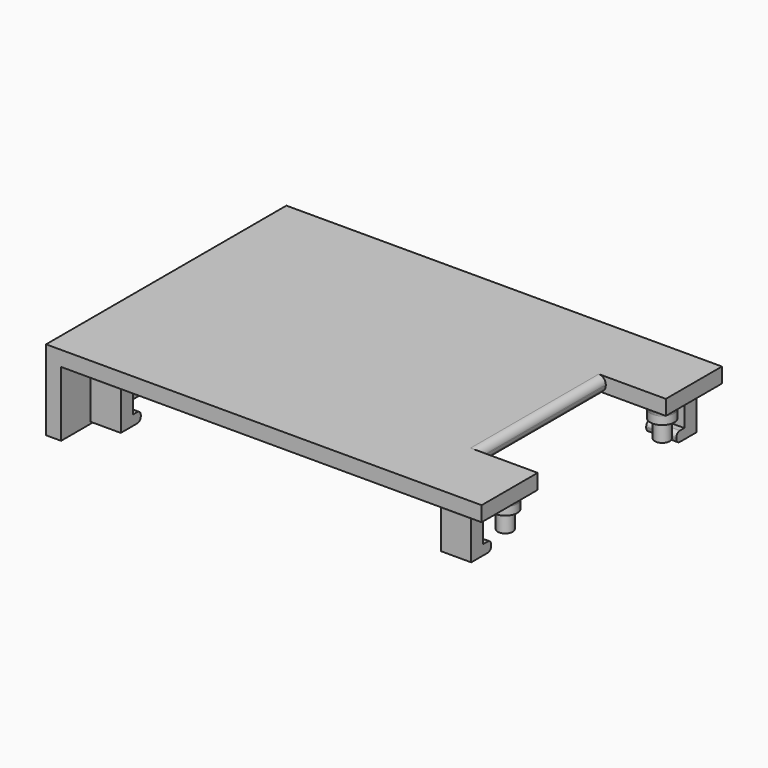
from build123d import *

# Parameters (mm, degrees)
PAD009_DEPTH            = 1.5
SKETCH020_R             = 1.2
SKETCH020_W             = 3
SKETCH020_H             = 1.5
PAD010_DEPTH            = 1.5
SKETCH018_R             = 0.75
SKETCH018_W             = 3
SKETCH018_H             = 1.5
PAD011_DEPTH            = 1.8
SKETCH022_W             = 3
SKETCH022_H             = 1.5
PAD013_DEPTH            = 0.2
SKETCH021_W             = 3
SKETCH021_H             = 2.5
PAD012_DEPTH            = 1
FILLET003_R             = 0.45
SKETCH024_W             = 1.5
SKETCH024_H             = 30
PAD014_DEPTH            = 8
SKETCH023_W             = 13
SKETCH023_H             = 2.5
POCKET005_DEPTH         = 5
FILLET005_R             = 0.7
FILLET006_R             = 0.7
FILLET010_R             = 0.7
BODY003_PLACEMENT_ANGLE = 180


with BuildPart() as part:
    # Sketch019 → Pad009 (new body)
    with BuildSketch(Plane.XY):
        Polygon((-21.2, 15), (20.8, 15), (20.8, 8), (14.8, 8), (14.8, -8), (20.8, -8), (20.8, -15), (-21.2, -15), align=None)
    extrude(amount=PAD009_DEPTH)

    # Sketch020 → Pad010 (join)
    with BuildSketch(Plane.XY.offset(1.5)):
        with Locations((-19, 9.8)):
            Circle(SKETCH020_R)
        with Locations((-19, -9.8)):
            Circle(SKETCH020_R)
        with Locations((19, -9.8)):
            Circle(SKETCH020_R)
        with Locations((19, 9.8)):
            Circle(SKETCH020_R)
        with Locations((-17.5, 13.3)):
            Rectangle(SKETCH020_W, SKETCH020_H)
        with Locations((17.5, 13.3)):
            Rectangle(SKETCH020_W, SKETCH020_H)
        with Locations((17.5, -13.3)):
            Rectangle(SKETCH020_W, SKETCH020_H)
        with Locations((-17.5, -13.3)):
            Rectangle(SKETCH020_W, SKETCH020_H)
    extrude(amount=PAD010_DEPTH)

    # Sketch018 → Pad011 (join)
    with BuildSketch(Plane.XY.offset(3)):
        with Locations((-19, 9.8)):
            Circle(SKETCH018_R)
        with Locations((19, 9.8)):
            Circle(SKETCH018_R)
        with Locations((19, -9.8)):
            Circle(SKETCH018_R)
        with Locations((-19, -9.8)):
            Circle(SKETCH018_R)
        with Locations((-17.5, 13.3)):
            Rectangle(SKETCH018_W, SKETCH018_H)
        with Locations((17.5, 13.3)):
            Rectangle(SKETCH018_W, SKETCH018_H)
        with Locations((17.5, -13.3)):
            Rectangle(SKETCH018_W, SKETCH018_H)
        with Locations((-17.5, -13.3)):
            Rectangle(SKETCH018_W, SKETCH018_H)
    extrude(amount=PAD011_DEPTH)

    # Sketch022 → Pad013 (join)
    with BuildSketch(Plane.XY.offset(4.8)):
        with Locations((-17.5, 13.3)):
            Rectangle(SKETCH022_W, SKETCH022_H)
        with Locations((17.5, 13.3)):
            Rectangle(SKETCH022_W, SKETCH022_H)
        with Locations((17.5, -13.3)):
            Rectangle(SKETCH022_W, SKETCH022_H)
        with Locations((-17.5, -13.3)):
            Rectangle(SKETCH022_W, SKETCH022_H)
    extrude(amount=PAD013_DEPTH)

    # Sketch021 → Pad012 (join)
    with BuildSketch(Plane.XY.offset(5)):
        with Locations((-17.5, 12.8)):
            Rectangle(SKETCH021_W, SKETCH021_H)
        with Locations((17.5, 12.8)):
            Rectangle(SKETCH021_W, SKETCH021_H)
        with Locations((17.5, -12.8)):
            Rectangle(SKETCH021_W, SKETCH021_H)
        with Locations((-17.5, -12.8)):
            Rectangle(SKETCH021_W, SKETCH021_H)
    extrude(amount=PAD012_DEPTH)

    # Fillet003
    fillet003_edges = [part.edges().sort_by_distance(p)[0] for p in [
        (-17.5, 11.55, 6),
        (-17.5, 11.55, 5),
        (17.5, 11.55, 6),
        (17.5, 11.55, 5),
        (17.5, -11.55, 5),
        (17.5, -11.55, 6),
        (-17.5, -11.55, 5),
        (-17.5, -11.55, 6),
    ]]
    fillet(fillet003_edges, radius=FILLET003_R)

    # Sketch024 → Pad014 (join)
    with BuildSketch(Plane.XY):
        with Locations((-21.95, 0)):
            Rectangle(SKETCH024_W, SKETCH024_H)
    extrude(amount=PAD014_DEPTH)

    # Sketch023 → Pocket005 (cut)
    with BuildSketch(Plane.YZ.offset(-21)):
        with Locations((1, 5.75)):
            Rectangle(SKETCH023_W, SKETCH023_H)
    extrude(amount=-POCKET005_DEPTH, mode=Mode.SUBTRACT)

    # Fillet005
    fillet005_edges = [part.edges().sort_by_distance(p)[0] for p in [
        (-17.5, -14.05, 1.5),
        (-16, -13.3, 1.5),
        (-17.5, -12.55, 1.5),
        (-20.2, -9.8, 1.5),
        (-19, -13.3, 1.5),
        (-20.2, 9.8, 1.5),
        (-16, 13.3, 1.5),
        (-19, 13.3, 1.5),
        (-17.5, 14.05, 1.5),
        (-17.5, 12.55, 1.5),
        (17.8, -9.8, 1.5),
        (17.5, -12.55, 1.5),
        (19, -13.3, 1.5),
        (17.5, -14.05, 1.5),
        (16, -13.3, 1.5),
        (17.8, 9.8, 1.5),
        (17.5, 12.55, 1.5),
        (16, 13.3, 1.5),
        (19, 13.3, 1.5),
        (17.5, 14.05, 1.5),
    ]]
    fillet(fillet005_edges, radius=FILLET005_R)

    # Fillet006
    fillet006_edges = [part.edges().sort_by_distance(p)[0] for p in [
        (-21.2, 1, 4.5),
        (-21.95, 7.5, 4.5),
        (-22.7, 1, 4.5),
        (-21.95, -5.5, 4.5),
        (-21.2, 7.5, 5.75),
        (-21.95, 7.5, 7),
        (-22.7, 7.5, 5.75),
        (-21.2, -5.5, 5.75),
        (-22.7, -5.5, 5.75),
        (-21.95, -5.5, 7),
        (-21.2, 1, 7),
        (-22.7, 1, 7),
    ]]
    fillet(fillet006_edges, radius=FILLET006_R)

    # Fillet010
    fillet010_edges = [part.edges().sort_by_distance(p)[0] for p in [
        (14.8, 0, 1.5),
        (14.8, 0, 0),
    ]]
    fillet(fillet010_edges, radius=FILLET010_R)


with BuildPart() as part_1:
    # Body003 placement: moved
    add(part.part.moved(Location((-5.8, 0, -8.5))).rotate(Axis((-5.8, 0, -8.5), (1, 0, 0)), BODY003_PLACEMENT_ANGLE))


solid = part_1.part
